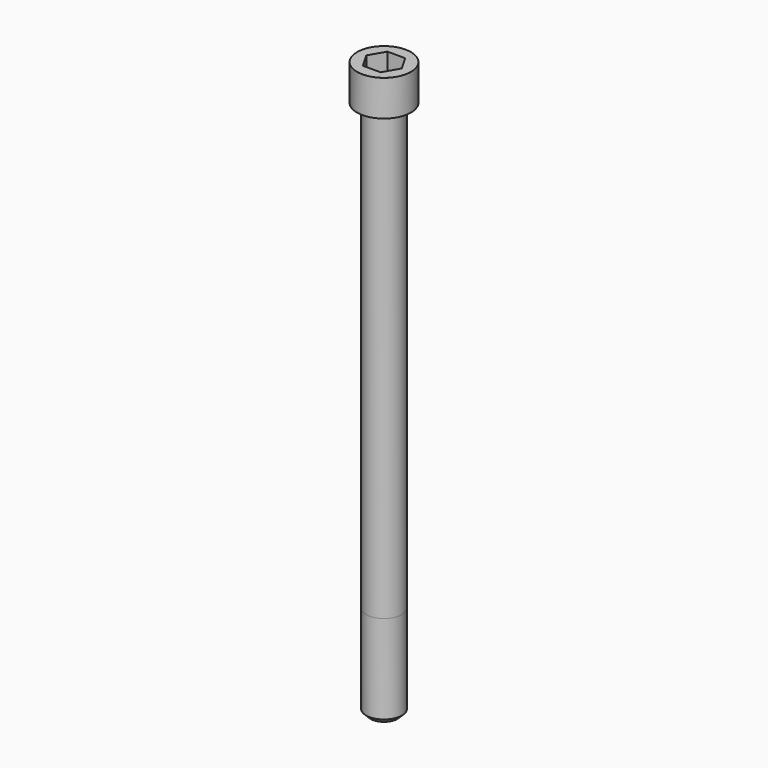
from build123d import *

# Parameters (mm, degrees)
POCKET_DEPTH = 17.1


with BuildPart() as part:
    # Sketch → Revolve (revolve)
    with BuildSketch(Plane.YZ):
        with BuildLine():
            Line((9.999, 0), (15, 0))
            Line((15, 0), (15, 19.97229))
            ThreePointArc((15, 19.97229), (14.991884, 19.991884), (14.97229, 20))
            Line((14.97229, 20), (0, 20))
            Line((0, -300), (0, 20))
            Line((7.5, -300), (0, -300))
            Line((10, -297.5), (7.5, -300))
            Line((10, -248), (10, -297.5))
            Line((9.999, 0), (10, -248))
        make_face()
    revolve(axis=Axis((0, 0, 0), (0, 0, 1)))

    # Sketch001 → Pocket (cut)
    with BuildSketch(Plane.XY.offset(20)):
        Polygon((9.87269, 0), (4.936345, 8.55), (-4.936345, 8.55), (-9.87269, 0), (-4.936345, -8.55), (4.936345, -8.55), align=None)
    extrude(amount=-POCKET_DEPTH, mode=Mode.SUBTRACT)


solid = part.part
